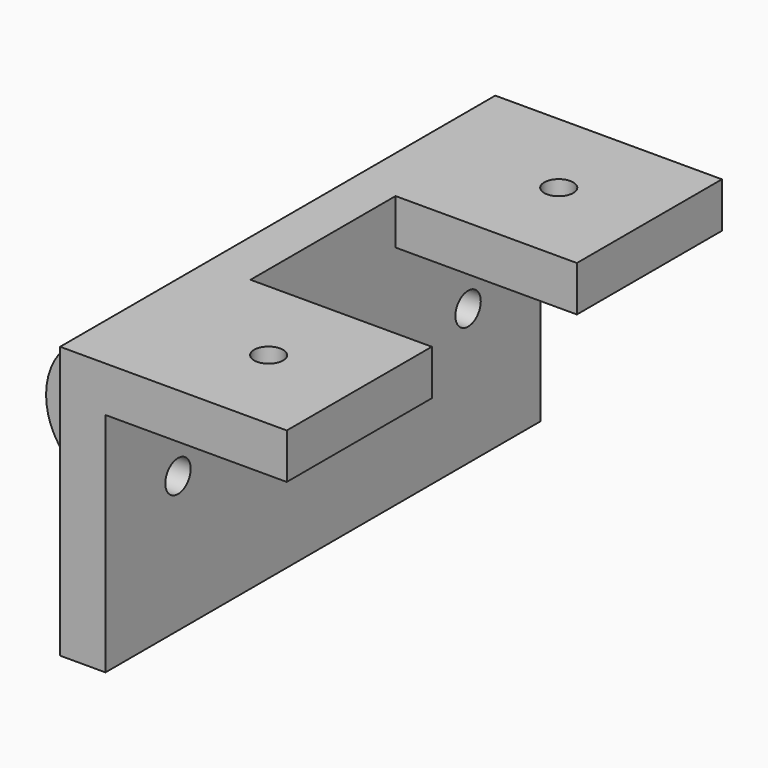
from build123d import *

# Parameters (mm, degrees)
F1_DEPTH  = 20
F4_D      = 3.2
F5_R      = 2.55
F6_DEPTH  = 5
F7_W      = 5
F7_H      = 30
F8_DEPTH  = 5
F10_W     = 20
F10_H     = 20
F10_H_2   = 40
F11_DEPTH = 5
F13_D     = 3.5
F13_DEPTH = 10


with BuildPart() as f1:
    # F0 (on Front) → F1 (new body)
    with BuildSketch(Plane.XZ):
        Polygon((0, 0), (25, 0), (25, 5), (5, 5), (5, 25), (25, 25), (25, 30), (0, 30), align=None)
    extrude(amount=F1_DEPTH)

    # F4 (through all)
    with Locations(Plane(origin=(0, 0, 25), x_dir=(1, 0, 0), z_dir=(0, 0, -1))):
        with Locations((15, 10), (15, -10)):
            Hole(F4_D / 2)

    # F5 (on face) → F6 (join)
    with BuildSketch(Plane.XZ.offset(20)):
        Polygon((5, 30), (0, 30), (0, 0), (5, 0), (5, 5), (5, 25), align=None)
        with BuildLine():
            Line((0, 0), (0, 30))
            Line((0, 30), (-14.910067, 17.235307))
            ThreePointArc((-14.910067, 17.235307), (-17.42027, 10.106411), (-12.494612, 4.374033))
            Line((-12.494612, 4.374033), (0, 0))
        make_face()
        with Locations((-10, 11.5)):
            Circle(F5_R, mode=Mode.SUBTRACT)
    extrude(amount=F6_DEPTH)

    # F7 (on face) → F8 (join)
    with BuildSketch(Plane.XZ.offset(25)):
        with Locations((2.5, 15)):
            Rectangle(F7_W, F7_H)
    extrude(amount=F8_DEPTH)

    # F9: F1 across face


with BuildPart() as f1_1:
    add(f1.part)
    add(f1.part.mirror(Plane(origin=(2.5, -30, 15), x_dir=(1, 0, 0), z_dir=(0, -1, 0))))

    # F10 (on face) → F11 (cut, through all)
    with BuildSketch(Plane.XY.offset(5)):
        with Locations((15, -10)):
            Rectangle(F10_W, F10_H)
        with Locations((15, -40)):
            Rectangle(F10_W, F10_H_2)
    extrude(amount=-F11_DEPTH, mode=Mode.SUBTRACT)

    # F13
    with Locations(Plane(origin=(0, 0, 0), x_dir=(0, -1, 0), z_dir=(-1, 0, 0))):
        with Locations((10, 15), (50, 15)):
            Hole(F13_D / 2, depth=F13_DEPTH)


solid = f1_1.part
